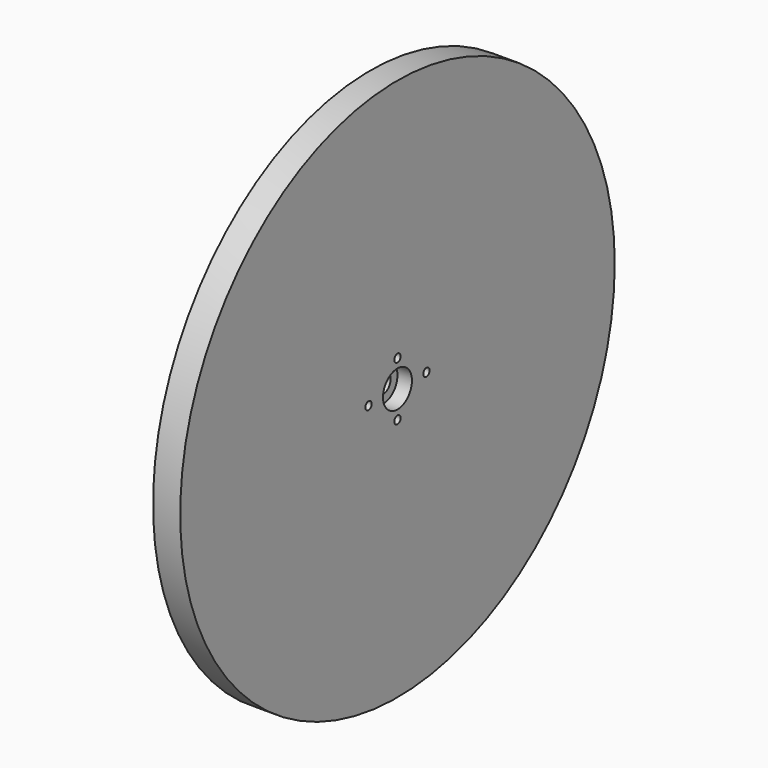
from build123d import *

# Parameters (mm, degrees)
F2_R     = 150
F2_R_2   = 2.2
F2_R_3   = 10
F2_R_4   = 5.25
F3_DEPTH = 15
F4_DEPTH = 8


with BuildPart() as f3:
    # F2 (on Right) → F3 (new body)
    with BuildSketch(Plane.YZ):
        Circle(F2_R)
        with Locations((0, -15)):
            Circle(F2_R_2, mode=Mode.SUBTRACT)
        with Locations((-20, 0)):
            Circle(F2_R_2, mode=Mode.SUBTRACT)
        Circle(F2_R_3, mode=Mode.SUBTRACT)
        with Locations((0, 15)):
            Circle(F2_R_2, mode=Mode.SUBTRACT)
        with Locations((20, 0)):
            Circle(F2_R_2, mode=Mode.SUBTRACT)
        Circle(F2_R_3)
        Circle(F2_R_4, mode=Mode.SUBTRACT)
    extrude(amount=-F3_DEPTH)

    # F2 (on Right) → F4 (cut)
    with BuildSketch(Plane.YZ):
        Circle(F2_R_3)
        Circle(F2_R_4, mode=Mode.SUBTRACT)
    extrude(amount=-F4_DEPTH, mode=Mode.SUBTRACT)


solid = f3.part
